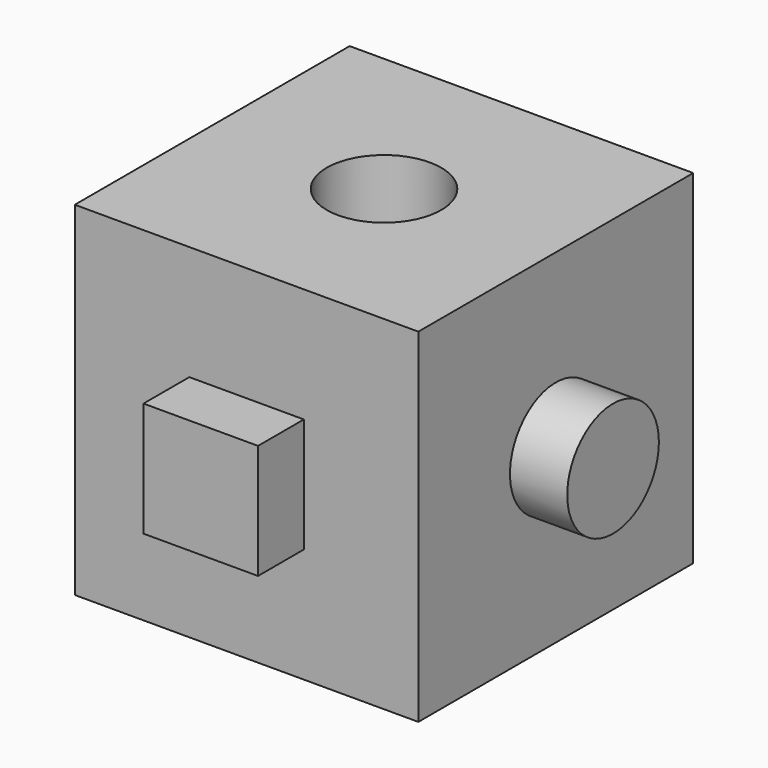
from build123d import *

# Parameters (mm, degrees)
F0_W     = 76.2
F0_H     = 76.2
F1_DEPTH = 76.2
F2_W     = 25.4
F2_H     = 25.4
F3_DEPTH = 12.7
F4_R     = 12.7
F5_DEPTH = 12.7
F7_D     = 25.4
F9_DEPTH = 12.7


with BuildPart() as f1:
    # F0 (on Front) → F1 (new body)
    with BuildSketch(Plane.XZ):
        with Locations((7.299488, 11.673)):
            Rectangle(F0_W, F0_H)
    extrude(amount=-F1_DEPTH)

    # F2 (on face) → F3 (join)
    with BuildSketch(Plane.XZ):
        with Locations((7.299488, 11.673)):
            Rectangle(F2_W, F2_H)
    extrude(amount=F3_DEPTH)

    # F4 (on face) → F5 (join)
    with BuildSketch(Plane.YZ.offset(45.399488)):
        with Locations((38.1, 11.673)):
            Circle(F4_R)
    extrude(amount=F5_DEPTH)

    # F7 (through all)
    with Locations(Plane.XY.offset(49.773)):
        with Locations((7.299488, 38.1)):
            Hole(F7_D / 2)

    # F8 (on face) → F9 (join)
    with BuildSketch(Plane(origin=(-30.800512, 0, 0), x_dir=(0, -1, 0), z_dir=(-1, 0, 0))):
        Polygon((-25.273967, 2.600951), (-38.355934, 24.373), (-50.670099, 2.157659), align=None)
    extrude(amount=F9_DEPTH)


solid = f1.part
